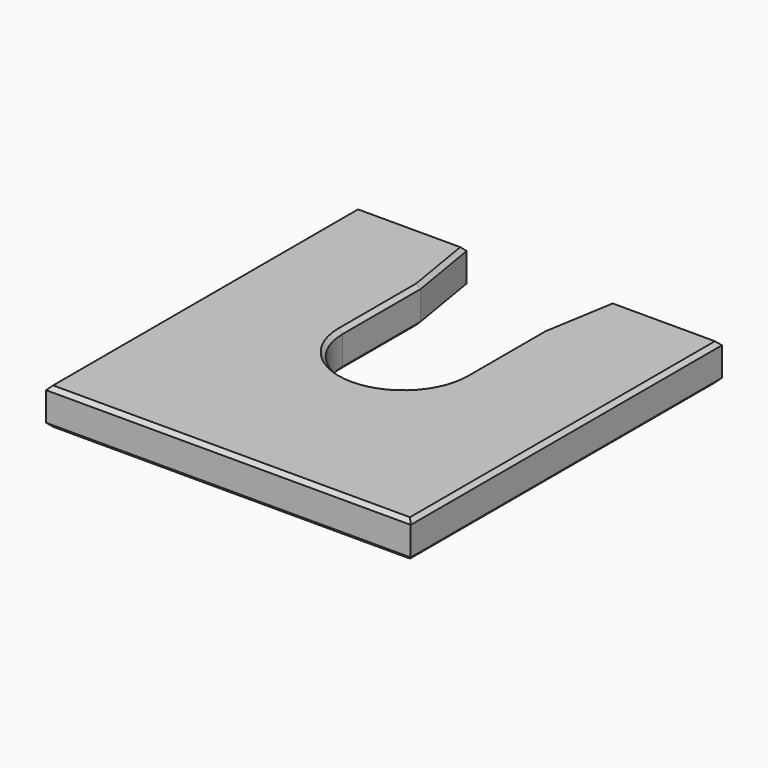
from build123d import *

# Parameters (mm, degrees)
F1_DEPTH = 9.525
F2_SIZE  = 1.016


with BuildPart() as f1:
    # F0 (on Top) → F1 (new body)
    with BuildSketch(Plane.XY):
        with BuildLine():
            Line((-19.05, 50.8), (-47.625, 50.8))
            Line((-47.625, 50.8), (-47.625, -50.8))
            Line((-47.625, -50.8), (47.625, -50.8))
            Line((47.625, -50.8), (47.625, 50.8))
            Line((47.625, 50.8), (19.05, 50.8))
            Line((19.05, 50.8), (15.875, 31.75))
            Line((15.875, 31.75), (15.875, 6.35))
            ThreePointArc((15.875, 6.35), (0, -9.525), (-15.875, 6.35))
            Line((-15.875, 6.35), (-15.875, 31.75))
            Line((-15.875, 31.75), (-19.05, 50.8))
        make_face()
    extrude(amount=F1_DEPTH)

    # F2
    f2_edges = [f1.edges().sort_by_distance(p)[0] for p in [
        (-33.3375, 50.8, 9.525),
        (-47.625, 0, 9.525),
        (0, -50.8, 9.525),
        (47.625, 0, 9.525),
        (33.3375, 50.8, 9.525),
        (17.4625, 41.275, 9.525),
        (15.875, 19.05, 9.525),
        (0, -9.525, 9.525),
        (-15.875, 19.05, 9.525),
        (-17.4625, 41.275, 9.525),
        (-33.3375, 50.8, 0),
        (-47.625, 0, 0),
        (0, -50.8, 0),
        (47.625, 0, 0),
        (33.3375, 50.8, 0),
        (17.4625, 41.275, 0),
        (15.875, 19.05, 0),
        (0, -9.525, 0),
        (-15.875, 19.05, 0),
        (-17.4625, 41.275, 0),
    ]]
    chamfer(f2_edges, length=F2_SIZE)


solid = f1.part
